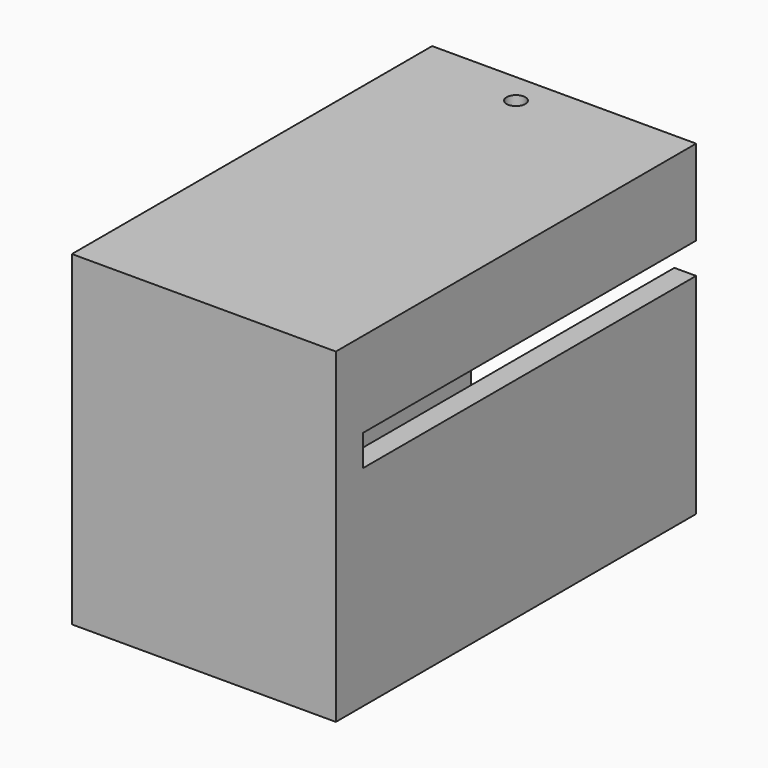
from build123d import *

# Parameters (mm, degrees)
SKETCH189_W     = 17
SKETCH189_H     = 21
PAD117_DEPTH    = 29
SKETCH185_W     = 13.1
SKETCH185_H     = 17
POCKET012_DEPTH = 25.7
SKETCH186_W     = 11.5
SKETCH186_H     = 1.2
SKETCH186_W_2   = 1.4
SKETCH186_H_2   = 2
POCKET013_DEPTH = 26.8
SKETCH178_R     = 0.6
POCKET014_DEPTH = 50
SKETCH184_W     = 0.6
SKETCH184_H     = 3
POCKET015_DEPTH = 2.5


with BuildPart() as part:
    # Sketch189 → Pad117 (new body)
    with BuildSketch(Plane.XZ):
        with Locations((1.5, 2)):
            Rectangle(SKETCH189_W, SKETCH189_H)
    extrude(amount=PAD117_DEPTH)

    # Sketch185 (on Face5 of Pad117) → Pocket012 (cut)
    with BuildSketch(Plane(origin=(0, 0, 0), x_dir=(1, 0, 0), z_dir=(0, 1, 0))):
        with Locations((2.05, -2)):
            Rectangle(SKETCH185_W, SKETCH185_H)
    extrude(amount=-POCKET012_DEPTH, mode=Mode.SUBTRACT)

    # Sketch186 (on Face4 of Pocket012) → Pocket013 (cut)
    with BuildSketch(Plane(origin=(0, 0, 0), x_dir=(1, 0, 0), z_dir=(0, 1, 0))):
        Rectangle(SKETCH186_W, SKETCH186_H)
        with Locations((9.3, -6)):
            Rectangle(SKETCH186_W_2, SKETCH186_H_2)
    extrude(amount=-POCKET013_DEPTH, mode=Mode.SUBTRACT)

    # Sketch178 (on Face6 of Pocket013) → Pocket014 (cut)
    with BuildSketch(Plane(origin=(0, 0, -8.5), x_dir=(1, 0, 0), z_dir=(0, 0, -1))):
        with Locations((0, 2)):
            Circle(SKETCH178_R)
    extrude(amount=-POCKET014_DEPTH, mode=Mode.SUBTRACT)

    # Sketch184 (on Face21 of Pocket014) → Pocket015 (cut)
    with BuildSketch(Plane(origin=(8.6, 0, 0), x_dir=(0, 0, 1), z_dir=(1, 0, 0))):
        with Locations((0, -9)):
            Rectangle(SKETCH184_W, SKETCH184_H)
    extrude(amount=-POCKET015_DEPTH, mode=Mode.SUBTRACT)


solid = part.part
